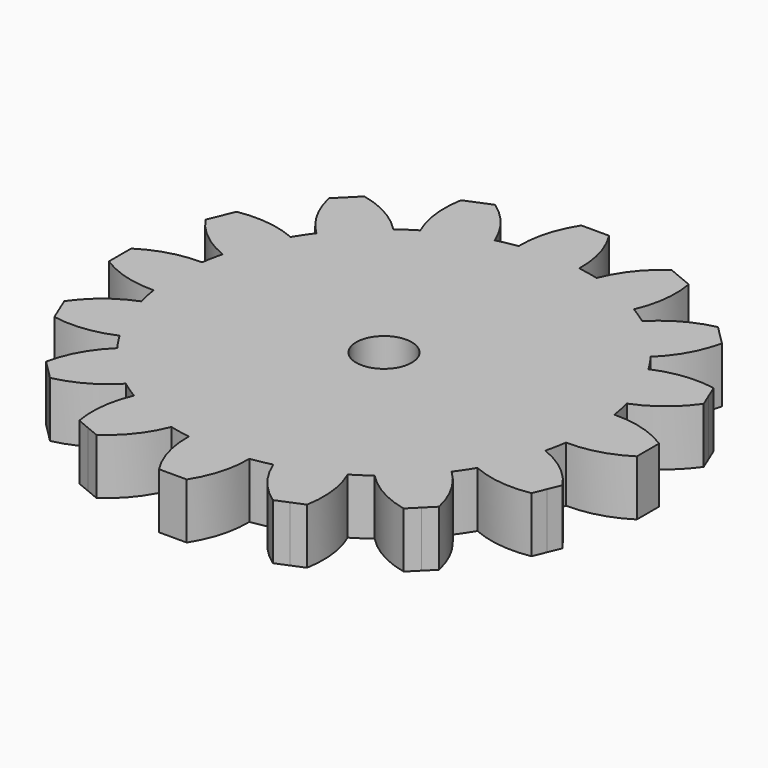
from build123d import *

# Parameters (mm, degrees)
F1_DEPTH = 2
F2_R     = 1
F3_DEPTH = 2.001


with BuildPart() as f1:
    # F0 (on Top) → F1 (new body)
    with BuildSketch(Plane.XY):
        with BuildLine():
            ThreePointArc((7.420617, -1.088319), (7.480128, -0.545605), (7.5, 0))
            ThreePointArc((7.5, 0), (7.480128, 0.545605), (7.420617, 1.088319))
            ThreePointArc((7.420617, 1.088319), (7.35589, 1.463177), (7.272238, 1.834271))
            ThreePointArc((7.272238, 1.834271), (6.929096, 2.870126), (6.439275, 3.845223))
            ThreePointArc((6.439275, 3.845223), (6.236022, 4.166777), (6.016727, 4.477611))
            ThreePointArc((6.016727, 4.477611), (5.303301, 5.303301), (4.477611, 6.016727))
            ThreePointArc((4.477611, 6.016727), (4.166777, 6.236022), (3.845223, 6.439275))
            ThreePointArc((3.845223, 6.439275), (2.870126, 6.929096), (1.834271, 7.272238))
            ThreePointArc((1.834271, 7.272238), (1.463177, 7.35589), (1.088319, 7.420617))
            ThreePointArc((1.088319, 7.420617), (0.545605, 7.480128), (0, 7.5))
            ThreePointArc((0, 7.5), (-0.545605, 7.480128), (-1.088319, 7.420617))
            ThreePointArc((-1.088319, 7.420617), (-1.463177, 7.35589), (-1.834271, 7.272238))
            ThreePointArc((-1.834271, 7.272238), (-2.870126, 6.929096), (-3.845223, 6.439275))
            ThreePointArc((-3.845223, 6.439275), (-4.166777, 6.236022), (-4.477611, 6.016727))
            ThreePointArc((-4.477611, 6.016727), (-5.303301, 5.303301), (-6.016727, 4.477611))
            ThreePointArc((-6.016727, 4.477611), (-6.236022, 4.166777), (-6.439275, 3.845223))
            ThreePointArc((-6.439275, 3.845223), (-6.929096, 2.870126), (-7.272238, 1.834271))
            ThreePointArc((-7.272238, 1.834271), (-7.35589, 1.463177), (-7.420617, 1.088319))
            ThreePointArc((-7.420617, 1.088319), (-7.5, 0), (-7.420617, -1.088319))
            ThreePointArc((-7.420617, -1.088319), (-7.35589, -1.463177), (-7.272238, -1.834271))
            ThreePointArc((-7.272238, -1.834271), (-6.929096, -2.870126), (-6.439275, -3.845223))
            ThreePointArc((-6.439275, -3.845223), (-6.236022, -4.166777), (-6.016727, -4.477611))
            ThreePointArc((-6.016727, -4.477611), (-5.303301, -5.303301), (-4.477611, -6.016727))
            ThreePointArc((-4.477611, -6.016727), (-4.166777, -6.236022), (-3.845223, -6.439275))
            ThreePointArc((-3.845223, -6.439275), (-2.870126, -6.929096), (-1.834271, -7.272238))
            ThreePointArc((-1.834271, -7.272238), (-1.463177, -7.35589), (-1.088319, -7.420617))
            ThreePointArc((-1.088319, -7.420617), (0, -7.5), (1.088319, -7.420617))
            ThreePointArc((1.088319, -7.420617), (1.463177, -7.35589), (1.834271, -7.272238))
            ThreePointArc((1.834271, -7.272238), (2.870126, -6.929096), (3.845223, -6.439275))
            ThreePointArc((3.845223, -6.439275), (4.166777, -6.236022), (4.477611, -6.016727))
            ThreePointArc((4.477611, -6.016727), (5.303301, -5.303301), (6.016727, -4.477611))
            ThreePointArc((6.016727, -4.477611), (6.236022, -4.166777), (6.439275, -3.845223))
            ThreePointArc((6.439275, -3.845223), (6.929096, -2.870126), (7.272238, -1.834271))
            ThreePointArc((7.272238, -1.834271), (7.35589, -1.463177), (7.420617, -1.088319))
        make_face()
        with BuildLine():
            ThreePointArc((7.420617, 1.088319), (7.480128, 0.545605), (7.5, 0))
            ThreePointArc((7.5, 0), (7.480128, -0.545605), (7.420617, -1.088319))
            ThreePointArc((7.420617, -1.088319), (8.504352, -0.949828), (9.5, -0.5))
            Line((9.5, -0.5), (9.5, 0))
            Line((9.5, 0), (9.5, 0.5))
            ThreePointArc((9.5, 0.5), (8.504352, 0.949828), (7.420617, 1.088319))
        make_face()
        with BuildLine():
            ThreePointArc((6.439275, 3.845223), (6.929096, 2.870126), (7.272238, 1.834271))
            ThreePointArc((7.272238, 1.834271), (8.22048, 2.376948), (8.968197, 3.173553))
            Line((8.968197, 3.173553), (8.776856, 3.635493))
            Line((8.776856, 3.635493), (8.585514, 4.097432))
            ThreePointArc((8.585514, 4.097432), (7.493513, 4.132001), (6.439275, 3.845223))
        make_face()
        with BuildLine():
            ThreePointArc((8.968197, -3.173553), (8.22048, -2.376948), (7.272238, -1.834271))
            ThreePointArc((7.272238, -1.834271), (6.929096, -2.870126), (6.439275, -3.845223))
            ThreePointArc((6.439275, -3.845223), (7.493513, -4.132001), (8.585514, -4.097432))
            Line((8.585514, -4.097432), (8.776856, -3.635493))
            Line((8.776856, -3.635493), (8.968197, -3.173553))
        make_face()
        with BuildLine():
            ThreePointArc((4.477611, 6.016727), (5.303301, 5.303301), (6.016727, 4.477611))
            ThreePointArc((6.016727, 4.477611), (6.685115, 5.341855), (7.071068, 6.363961))
            Line((7.071068, 6.363961), (6.717514, 6.717514))
            Line((6.717514, 6.717514), (6.363961, 7.071068))
            ThreePointArc((6.363961, 7.071068), (5.341855, 6.685115), (4.477611, 6.016727))
        make_face()
        with BuildLine():
            ThreePointArc((7.071068, -6.363961), (6.685115, -5.341855), (6.016727, -4.477611))
            ThreePointArc((6.016727, -4.477611), (5.303301, -5.303301), (4.477611, -6.016727))
            ThreePointArc((4.477611, -6.016727), (5.341855, -6.685115), (6.363961, -7.071068))
            Line((6.363961, -7.071068), (6.717514, -6.717514))
            Line((6.717514, -6.717514), (7.071068, -6.363961))
        make_face()
        with BuildLine():
            ThreePointArc((1.834271, 7.272238), (2.870126, 6.929096), (3.845223, 6.439275))
            ThreePointArc((3.845223, 6.439275), (4.132001, 7.493513), (4.097432, 8.585514))
            Line((4.097432, 8.585514), (3.635493, 8.776856))
            Line((3.635493, 8.776856), (3.173553, 8.968197))
            ThreePointArc((3.173553, 8.968197), (2.376948, 8.22048), (1.834271, 7.272238))
        make_face()
        with BuildLine():
            ThreePointArc((4.097432, -8.585514), (4.132001, -7.493513), (3.845223, -6.439275))
            ThreePointArc((3.845223, -6.439275), (2.870126, -6.929096), (1.834271, -7.272238))
            ThreePointArc((1.834271, -7.272238), (2.376948, -8.22048), (3.173553, -8.968197))
            Line((3.173553, -8.968197), (3.635493, -8.776856))
            Line((3.635493, -8.776856), (4.097432, -8.585514))
        make_face()
        with BuildLine():
            ThreePointArc((0, 7.5), (0.545605, 7.480128), (1.088319, 7.420617))
            ThreePointArc((1.088319, 7.420617), (0.949828, 8.504352), (0.5, 9.5))
            Line((0.5, 9.5), (0, 9.5))
            Line((0, 9.5), (0, 7.5))
        make_face()
        with BuildLine():
            ThreePointArc((0.5, -9.5), (0.949828, -8.504352), (1.088319, -7.420617))
            ThreePointArc((1.088319, -7.420617), (0, -7.5), (-1.088319, -7.420617))
            ThreePointArc((-1.088319, -7.420617), (-0.949828, -8.504352), (-0.5, -9.5))
            Line((-0.5, -9.5), (0, -9.5))
            Line((0, -9.5), (0.5, -9.5))
        make_face()
        with BuildLine():
            ThreePointArc((-1.088319, 7.420617), (-0.545605, 7.480128), (0, 7.5))
            Line((0, 7.5), (0, 9.5))
            Line((0, 9.5), (-0.5, 9.5))
            ThreePointArc((-0.5, 9.5), (-0.949828, 8.504352), (-1.088319, 7.420617))
        make_face()
        with BuildLine():
            ThreePointArc((-3.173553, -8.968197), (-2.376948, -8.22048), (-1.834271, -7.272238))
            ThreePointArc((-1.834271, -7.272238), (-2.870126, -6.929096), (-3.845223, -6.439275))
            ThreePointArc((-3.845223, -6.439275), (-4.132001, -7.493513), (-4.097432, -8.585514))
            Line((-4.097432, -8.585514), (-3.635493, -8.776856))
            Line((-3.635493, -8.776856), (-3.173553, -8.968197))
        make_face()
        with BuildLine():
            ThreePointArc((-3.845223, 6.439275), (-2.870126, 6.929096), (-1.834271, 7.272238))
            ThreePointArc((-1.834271, 7.272238), (-2.376948, 8.22048), (-3.173553, 8.968197))
            Line((-3.173553, 8.968197), (-3.635493, 8.776856))
            Line((-3.635493, 8.776856), (-4.097432, 8.585514))
            ThreePointArc((-4.097432, 8.585514), (-4.132001, 7.493513), (-3.845223, 6.439275))
        make_face()
        with BuildLine():
            ThreePointArc((-6.363961, -7.071068), (-5.341855, -6.685115), (-4.477611, -6.016727))
            ThreePointArc((-4.477611, -6.016727), (-5.303301, -5.303301), (-6.016727, -4.477611))
            ThreePointArc((-6.016727, -4.477611), (-6.685115, -5.341855), (-7.071068, -6.363961))
            Line((-7.071068, -6.363961), (-6.717514, -6.717514))
            Line((-6.717514, -6.717514), (-6.363961, -7.071068))
        make_face()
        with BuildLine():
            ThreePointArc((-6.016727, 4.477611), (-5.303301, 5.303301), (-4.477611, 6.016727))
            ThreePointArc((-4.477611, 6.016727), (-5.341855, 6.685115), (-6.363961, 7.071068))
            Line((-6.363961, 7.071068), (-6.717514, 6.717514))
            Line((-6.717514, 6.717514), (-7.071068, 6.363961))
            ThreePointArc((-7.071068, 6.363961), (-6.685115, 5.341855), (-6.016727, 4.477611))
        make_face()
        with BuildLine():
            ThreePointArc((-8.585514, -4.097432), (-7.493513, -4.132001), (-6.439275, -3.845223))
            ThreePointArc((-6.439275, -3.845223), (-6.929096, -2.870126), (-7.272238, -1.834271))
            ThreePointArc((-7.272238, -1.834271), (-8.22048, -2.376948), (-8.968197, -3.173553))
            Line((-8.968197, -3.173553), (-8.776856, -3.635493))
            Line((-8.776856, -3.635493), (-8.585514, -4.097432))
        make_face()
        with BuildLine():
            ThreePointArc((-7.272238, 1.834271), (-6.929096, 2.870126), (-6.439275, 3.845223))
            ThreePointArc((-6.439275, 3.845223), (-7.493513, 4.132001), (-8.585514, 4.097432))
            Line((-8.585514, 4.097432), (-8.776856, 3.635493))
            Line((-8.776856, 3.635493), (-8.968197, 3.173553))
            ThreePointArc((-8.968197, 3.173553), (-8.22048, 2.376948), (-7.272238, 1.834271))
        make_face()
        with BuildLine():
            ThreePointArc((-9.5, -0.5), (-8.504352, -0.949828), (-7.420617, -1.088319))
            ThreePointArc((-7.420617, -1.088319), (-7.5, 0), (-7.420617, 1.088319))
            ThreePointArc((-7.420617, 1.088319), (-8.504352, 0.949828), (-9.5, 0.5))
            Line((-9.5, 0.5), (-9.5, 0))
            Line((-9.5, 0), (-9.5, -0.5))
        make_face()
    extrude(amount=F1_DEPTH)

    # F2 (on face) → F3 (cut, through all)
    with BuildSketch(Plane.XY.offset(2)):
        Circle(F2_R)
    extrude(amount=-F3_DEPTH, mode=Mode.SUBTRACT)


solid = f1.part
